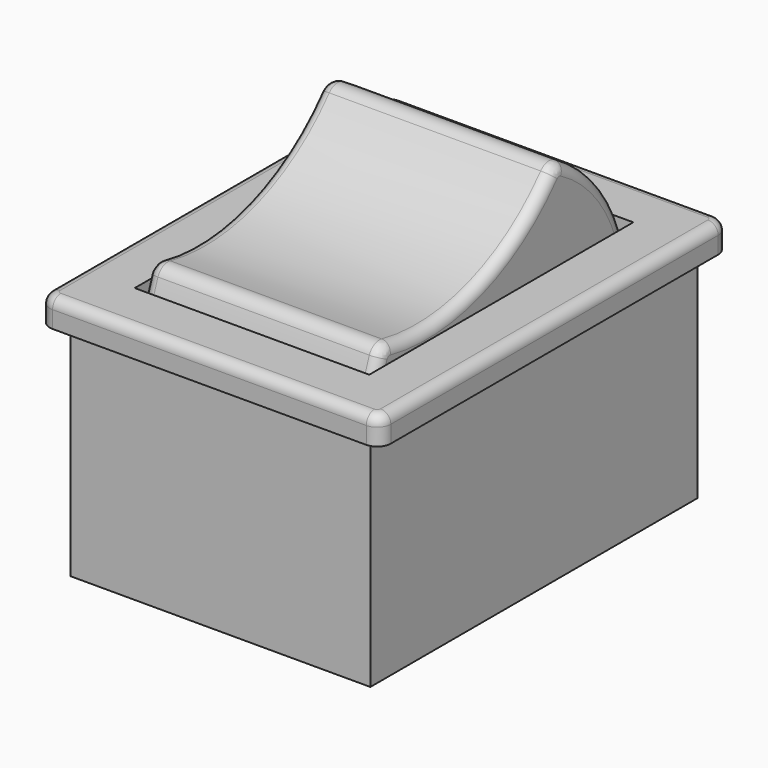
from build123d import *

# Parameters (mm, degrees)
SKETCH_W     = 25
SKETCH_H     = 32
PAD_DEPTH    = 2
SKETCH001_W  = 22
SKETCH001_H  = 30
PAD001_DEPTH = 16.200001
SKETCH002_W  = 17.2
SKETCH002_H  = 24.2
POCKET_DEPTH = 16
SKETCH003_W  = 1
SKETCH003_H  = 8
PAD002_DEPTH = 10
PAD003_DEPTH = 8.5
FILLET_R     = 1
FILLET001_R  = 0.75
FILLET002_R  = 1
FILLET003_R  = 0.75


with BuildPart() as part:
    # Sketch → Pad (new body)
    with BuildSketch(Plane.XY):
        Rectangle(SKETCH_W, SKETCH_H)
    extrude(amount=PAD_DEPTH)

    # Sketch001 → Pad001 (new body)
    with BuildSketch(Plane(origin=(0, 0, 0), x_dir=(1, 0, 0), z_dir=(0, 0, -1))):
        Rectangle(SKETCH001_W, SKETCH001_H)
    extrude(amount=PAD001_DEPTH)

    # Sketch002 → Pocket (cut)
    with BuildSketch(Plane.XY.offset(2)):
        Rectangle(SKETCH002_W, SKETCH002_H)
    extrude(amount=-POCKET_DEPTH, mode=Mode.SUBTRACT)

    # Sketch003 → Pad002 (new body)
    with BuildSketch(Plane.XY.offset(-14)):
        with Locations((-0.5, 0)):
            Rectangle(SKETCH003_W, SKETCH003_H)
    extrude(amount=PAD002_DEPTH)

    # Sketch004 → Pad003 (new body, symmetric)
    with BuildSketch(Plane.YZ):
        with BuildLine():
            Line((-1.421224, -2.628412), (0.611463, -8.650596))
            ThreePointArc((0.611463, -8.650596), (2.512397, -9.59211), (3.453911, -7.691175))
            Line((3.453911, -7.691175), (1.421224, -1.668991))
            Line((1.421224, -1.668991), (11.362733, 1.686598))
            ThreePointArc((11.362733, 1.686598), (8.973628, 5.807128), (5.169008, 8.672693))
            ThreePointArc((-10.669687, 3.326607), (-1.936582, 3.588753), (5.169008, 8.672693))
            ThreePointArc((-10.669687, 3.326607), (-11.959462, -1.258485), (-11.362733, -5.984001))
            Line((-1.421224, -2.628412), (-11.362733, -5.984001))
        make_face()
    extrude(amount=PAD003_DEPTH, both=True)

    # Fillet
    fillet_edges = [part.edges().sort_by_distance(p)[0] for p in [
        (-12.5, -16, 1),
        (12.5, -16, 1),
        (12.5, 16, 1),
        (-12.5, 16, 1),
    ]]
    fillet(fillet_edges, radius=FILLET_R)

    # Fillet001
    fillet001_edges = [part.edges().sort_by_distance(p)[0] for p in [
        (0, -16, 2),
    ]]
    fillet(fillet001_edges, radius=FILLET001_R)

    # Fillet002
    fillet002_edges = [part.edges().sort_by_distance(p)[0] for p in [
        (0, -10.669687, 3.326607),
        (0, 5.169008, 8.672693),
    ]]
    fillet(fillet002_edges, radius=FILLET002_R)

    # Fillet003
    fillet003_edges = [part.edges().sort_by_distance(p)[0] for p in [
        (8.5, -1.936582, 3.588753),
        (-8.5, -1.936582, 3.588753),
    ]]
    fillet(fillet003_edges, radius=FILLET003_R)


solid = part.part
